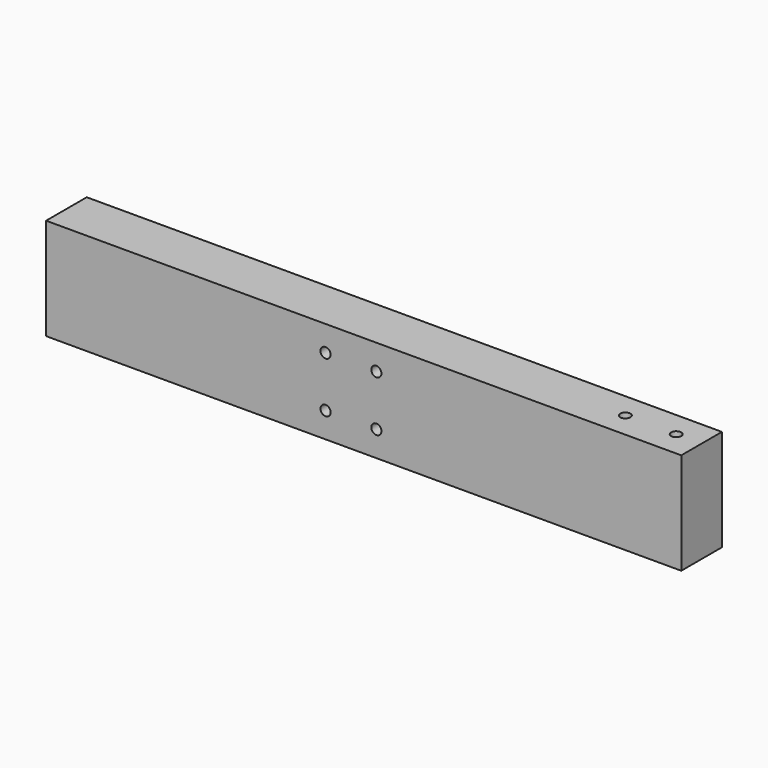
from build123d import *

# Parameters (mm, degrees)
F0_W     = 625
F0_H     = 100
F1_DEPTH = 50
F2_R     = 5
F3_DEPTH = 50
F4_R     = 5
F5_DEPTH = 25


with BuildPart() as f1:
    # F0 (on Front) → F1 (new body)
    with BuildSketch(Plane.XZ):
        Rectangle(F0_W, F0_H)
    extrude(amount=F1_DEPTH)

    # F2 (on face) → F3 (cut)
    with BuildSketch(Plane.XZ.offset(50)):
        with Locations((-37.5, -25)):
            Circle(F2_R)
        with Locations((12.5, -25)):
            Circle(F2_R)
        with Locations((-37.5, 25)):
            Circle(F2_R)
        with Locations((12.5, 25)):
            Circle(F2_R)
    extrude(amount=-F3_DEPTH, mode=Mode.SUBTRACT)

    # F4 (on face) → F5 (cut)
    with BuildSketch(Plane.XY.offset(50)):
        with Locations((237.5, -25)):
            Circle(F4_R)
        with Locations((287.5, -25)):
            Circle(F4_R)
    extrude(amount=-F5_DEPTH, mode=Mode.SUBTRACT)


solid = f1.part
